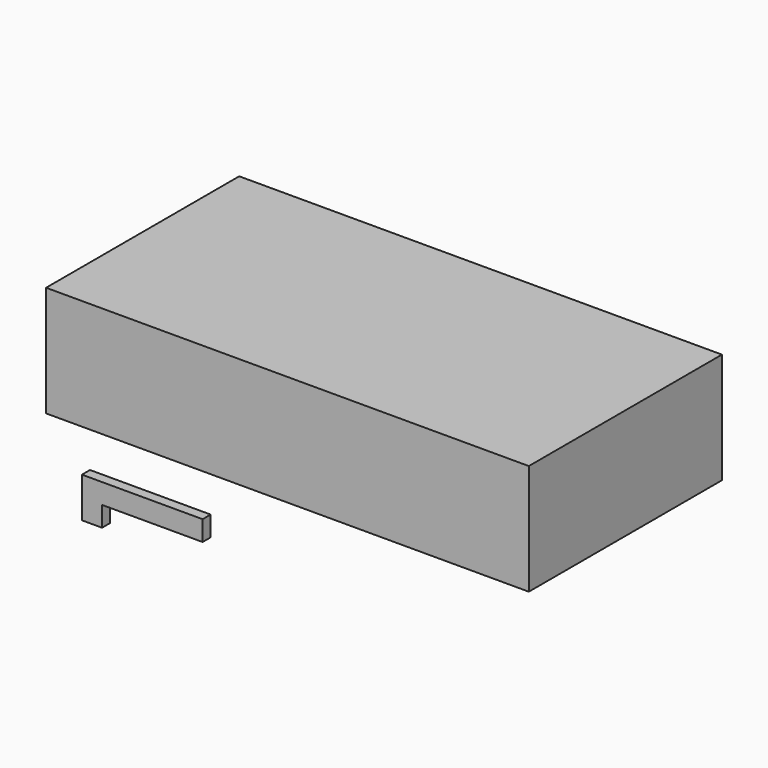
from build123d import *

# Parameters (mm, degrees)
F1_DEPTH = 6.35
F2_W     = 304.8
F2_H     = 152.4
F3_DEPTH = 69.85


with BuildPart() as f1:
    # F0 (on Front) → F1 (new body)
    with BuildSketch(Plane.XZ):
        Polygon((-47.657732, 8.261547), (-47.657732, -17.138453), (-34.957732, -17.138453), (-34.957732, -4.438453), (28.542268, -4.438453), (28.542268, 8.261547), align=None)
    extrude(amount=F1_DEPTH)


with BuildPart() as f3:
    # F2 (on Top) → F3 (new body)
    with BuildSketch(Plane.XY):
        with Locations((40.190225, 122.245382)):
            Rectangle(F2_W, F2_H)
    extrude(amount=F3_DEPTH)


solid = Compound([f1.part, f3.part])
